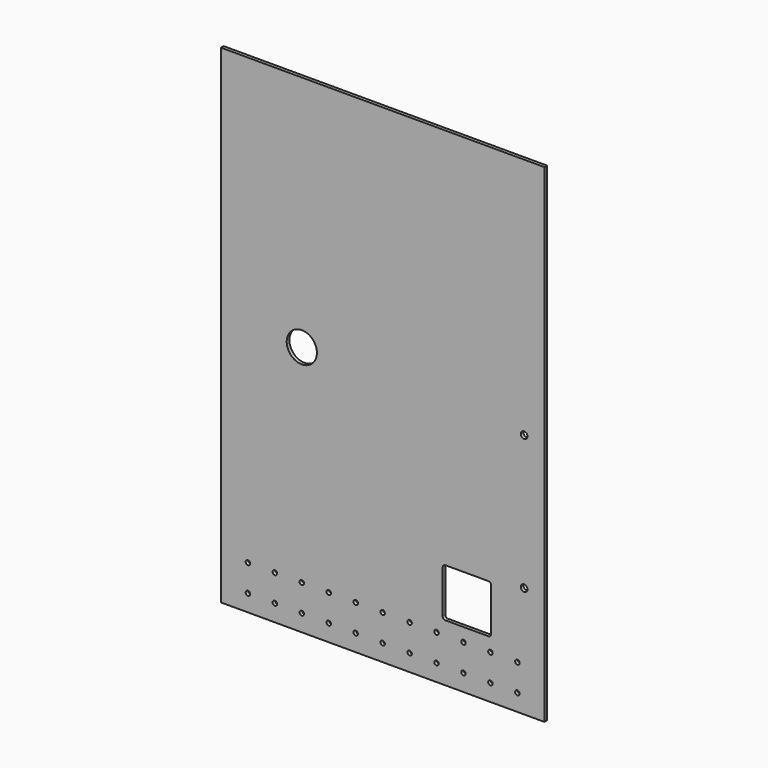
from build123d import *

# Parameters (mm, degrees)
F1_R     = 2.1082
F1_R_2   = 3.175
F1_R_3   = 14.224
F2_DEPTH = 3.175


with BuildPart() as f2:
    # F1 (on Front) → F2 (new body)
    with BuildSketch(Plane.XZ):
        Polygon((228.6, -182.5625), (228.6, 223.8375), (-76.2, 223.8375), (-76.2, -182.5625), (-76.2, -236.5375), (228.6, -236.5375), align=None)
        with Locations((-50.8, -220.6625)):
            Circle(F1_R, mode=Mode.SUBTRACT)
        with Locations((-50.8, -195.2625)):
            Circle(F1_R, mode=Mode.SUBTRACT)
        with Locations((-25.4, -220.6625)):
            Circle(F1_R, mode=Mode.SUBTRACT)
        with Locations((-25.4, -195.2625)):
            Circle(F1_R, mode=Mode.SUBTRACT)
        with Locations((0, -220.6625)):
            Circle(F1_R, mode=Mode.SUBTRACT)
        with Locations((25.4, -220.6625)):
            Circle(F1_R, mode=Mode.SUBTRACT)
        with Locations((0, -195.2625)):
            Circle(F1_R, mode=Mode.SUBTRACT)
        with Locations((25.4, -195.2625)):
            Circle(F1_R, mode=Mode.SUBTRACT)
        with Locations((50.8, -220.6625)):
            Circle(F1_R, mode=Mode.SUBTRACT)
        with Locations((50.8, -195.2625)):
            Circle(F1_R, mode=Mode.SUBTRACT)
        with Locations((76.2, -220.6625)):
            Circle(F1_R, mode=Mode.SUBTRACT)
        with Locations((101.6, -220.6625)):
            Circle(F1_R, mode=Mode.SUBTRACT)
        with Locations((76.2, -195.2625)):
            Circle(F1_R, mode=Mode.SUBTRACT)
        with Locations((101.6, -195.2625)):
            Circle(F1_R, mode=Mode.SUBTRACT)
        with Locations((127, -220.6625)):
            Circle(F1_R, mode=Mode.SUBTRACT)
        with Locations((152.4, -220.6625)):
            Circle(F1_R, mode=Mode.SUBTRACT)
        with Locations((127, -195.2625)):
            Circle(F1_R, mode=Mode.SUBTRACT)
        with Locations((152.4, -195.2625)):
            Circle(F1_R, mode=Mode.SUBTRACT)
        with Locations((177.8, -220.6625)):
            Circle(F1_R, mode=Mode.SUBTRACT)
        with Locations((177.8, -195.2625)):
            Circle(F1_R, mode=Mode.SUBTRACT)
        with Locations((203.2, -220.6625)):
            Circle(F1_R, mode=Mode.SUBTRACT)
        with Locations((203.2, -195.2625)):
            Circle(F1_R, mode=Mode.SUBTRACT)
        with BuildLine():
            Line((135.338163, -136.8425), (175.978163, -136.8425))
            ThreePointArc((175.978163, -136.8425), (177.774214, -137.586449), (178.518163, -139.3825))
            Line((178.518163, -139.3825), (178.518163, -180.0225))
            ThreePointArc((178.518163, -180.0225), (177.774214, -181.818551), (175.978163, -182.5625))
            Line((175.978163, -182.5625), (135.338163, -182.5625))
            ThreePointArc((135.338163, -182.5625), (133.542112, -181.818551), (132.798163, -180.0225))
            Line((132.798163, -180.0225), (132.798163, -139.3825))
            ThreePointArc((132.798163, -139.3825), (133.542112, -137.586449), (135.338163, -136.8425))
        make_face(mode=Mode.SUBTRACT)
        with Locations((209.55, -131.7625)):
            Circle(F1_R_2, mode=Mode.SUBTRACT)
        Circle(F1_R_3, mode=Mode.SUBTRACT)
        with Locations((209.55, -4.7625)):
            Circle(F1_R_2, mode=Mode.SUBTRACT)
    extrude(amount=F2_DEPTH)


solid = f2.part
